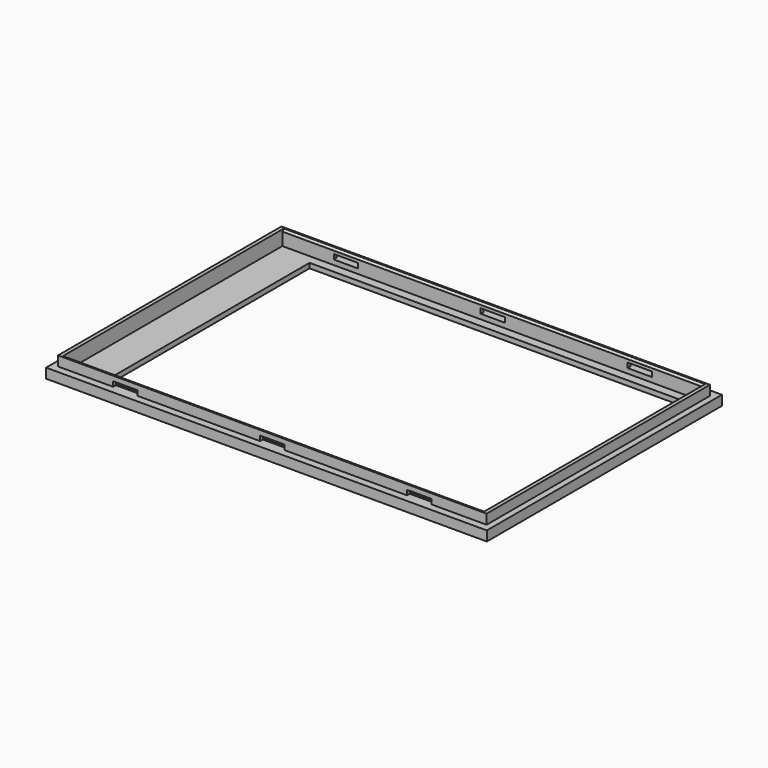
from build123d import *

# Parameters (mm, degrees)
SKETCH_W      = 90
SKETCH_H      = 60
SKETCH_W_2    = 76
SKETCH_H_2    = 52
PAD_DEPTH     = 1
SKETCH001_W   = 90
SKETCH001_H   = 60
SKETCH001_W_2 = 86
SKETCH001_H_2 = 55.6
PAD001_DEPTH  = 1
SKETCH002_W   = 87.5
SKETCH002_H   = 57
SKETCH002_W_2 = 86
SKETCH002_H_2 = 55.6
PAD002_DEPTH  = 2
SKETCH003_W   = 5
SKETCH003_H   = 1
POCKET_DEPTH  = 58.501
CHAMFER_SIZE  = 0.4


with BuildPart() as part:
    # Sketch → Pad (new body)
    with BuildSketch(Plane.XY):
        Rectangle(SKETCH_W, SKETCH_H)
        with Locations((2, 0)):
            Rectangle(SKETCH_W_2, SKETCH_H_2, mode=Mode.SUBTRACT)
    extrude(amount=PAD_DEPTH)

    # Sketch001 → Pad001 (new body)
    with BuildSketch(Plane.XY.offset(1)):
        Rectangle(SKETCH001_W, SKETCH001_H)
        Rectangle(SKETCH001_W_2, SKETCH001_H_2, mode=Mode.SUBTRACT)
    extrude(amount=PAD001_DEPTH)

    # Sketch002 → Pad002 (new body)
    with BuildSketch(Plane.XY.offset(2)):
        Rectangle(SKETCH002_W, SKETCH002_H)
        Rectangle(SKETCH002_W_2, SKETCH002_H_2, mode=Mode.SUBTRACT)
    extrude(amount=PAD002_DEPTH)

    # Sketch003 → Pocket (cut, through all)
    with BuildSketch(Plane.XZ.offset(28.5)):
        with Locations((-30, 2.5)):
            Rectangle(SKETCH003_W, SKETCH003_H)
        with Locations((0, 2.5)):
            Rectangle(SKETCH003_W, SKETCH003_H)
        with Locations((30, 2.5)):
            Rectangle(SKETCH003_W, SKETCH003_H)
    extrude(amount=-POCKET_DEPTH, mode=Mode.SUBTRACT)

    # Chamfer
    chamfer_edges = [part.edges().sort_by_distance(p)[0] for p in [
        (0, 27.8, 4),
        (0, -27.8, 4),
    ]]
    chamfer(chamfer_edges, length=CHAMFER_SIZE)


solid = part.part
